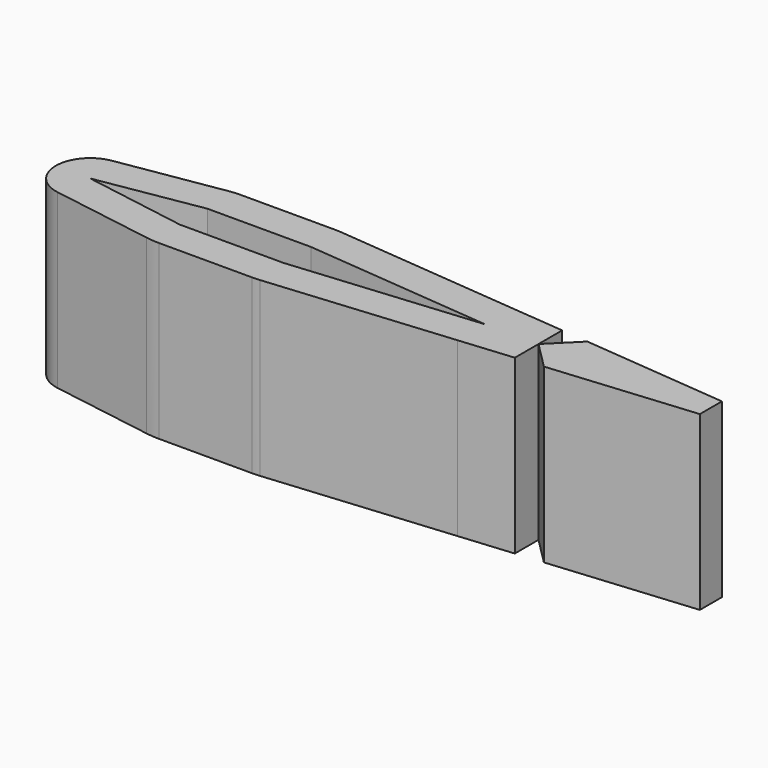
from build123d import *

# Parameters (mm, degrees)
F1_DEPTH = 25


with BuildPart() as f1:
    # F0 (on Top) → F1 (new body)
    with BuildSketch(Plane.XY):
        with BuildLine():
            Line((34.044999, 7.344999), (19.198959, 4.935416))
            ThreePointArc((19.198959, 4.935416), (15, 0), (19.198959, -4.935416))
            Line((19.198959, -4.935416), (34.044999, -7.344999))
            ThreePointArc((34.044999, -7.344999), (35.003129, -7.461187), (35.967498, -7.5))
            Line((35.967498, -7.5), (49.451151, -7.5))
            ThreePointArc((49.451151, -7.5), (49.999427, -7.487468), (50.546558, -7.449899))
            Line((50.546558, -7.449899), (77.272727, -5))
            Line((77.272727, -5), (85, -4.291667))
            Line((85, -4.291667), (85, 0))
            Line((85, 0), (85, 4.291667))
            Line((85, 4.291667), (77.272727, 5))
            Line((77.272727, 5), (50.546558, 7.449899))
            ThreePointArc((50.546558, 7.449899), (49.999427, 7.487468), (49.451151, 7.5))
            Line((49.451151, 7.5), (35.967498, 7.5))
            ThreePointArc((35.967498, 7.5), (35.003129, 7.461187), (34.044999, 7.344999))
        make_face()
        Polygon((50, 2.5), (77.272727, 0), (50, -2.5), (35, -2.5), (20, 0), (35, 2.5), align=None, mode=Mode.SUBTRACT)
        Polygon((110, 0), (85, 0), (88.931298, -3.931298), (110, -2), align=None)
        Polygon((110, 2), (88.931298, 3.931298), (85, 0), (110, 0), align=None)
    extrude(amount=F1_DEPTH)


solid = f1.part
